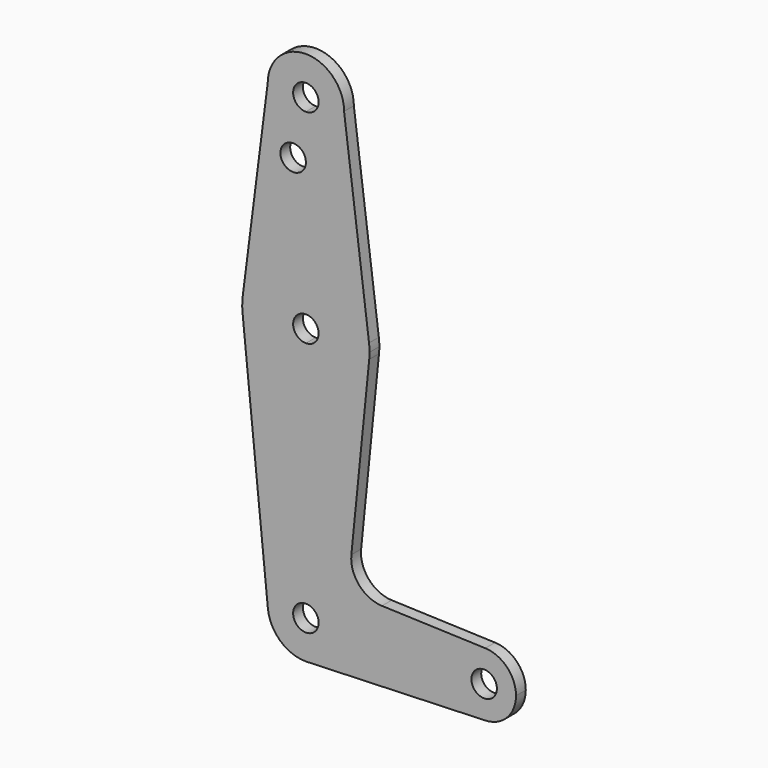
from build123d import *

# Parameters (mm, degrees)
F0_R     = 3.175
F1_DEPTH = 3.048


with BuildPart() as f1:
    # F0 (on Front) → F1 (new body)
    with BuildSketch(Plane.XZ):
        with BuildLine():
            ThreePointArc((3.175, 0), (-2.2450640303, -2.2450640303), (0, 3.175))
            Line((0, 3.175), (0, 9.525))
            ThreePointArc((0, 9.525), (-7.063929059, 6.3895642457), (-9.4772553384, -0.9525))
            ThreePointArc((-9.4772553384, -0.9525), (-6.3895642457, -7.063929059), (0, -9.525))
            Line((0, -9.525), (0.6773435479, -9.500885786))
            ThreePointArc((0.6773435479, -9.500885786), (6.9705567315, -6.4912990883), (9.525, 0))
            Line((9.525, 0), (3.175, 0))
        make_face()
        with BuildLine():
            ThreePointArc((-9.4772553384, -0.9525), (-7.063929059, 6.3895642457), (0, 9.525))
            Line((0, 9.525), (0, 47.625))
            ThreePointArc((0, 47.625), (-10.6492737428, 51.7267849017), (-15.7954255641, 61.9125))
            Line((-15.7954255641, 61.9125), (-9.4772553384, -0.9525))
        make_face()
        with BuildLine():
            Line((0, 47.625), (0, 9.525))
            ThreePointArc((0, 9.525), (6.7351920908, 6.7351920908), (9.525, 0))
            Line((9.525, 0), (36.5125, 0))
            ThreePointArc((36.5125, 0), (38.9380895153, 5.7116327839), (44.7324052746, 7.9324746146))
            Line((44.7324052746, 7.9324746146), (18.968327868, 8.8497055806))
            ThreePointArc((18.968327868, 8.8497055806), (13.2612039825, 11.5674628959), (11.3408358685, 17.5898921545))
            Line((11.3408358685, 17.5898921545), (15.7954255641, 61.9125))
            ThreePointArc((15.7954255641, 61.9125), (10.6492737428, 51.7267849017), (0, 47.625))
        make_face()
        with BuildLine():
            Line((36.5125, 0), (9.525, 0))
            ThreePointArc((9.525, 0), (6.9705567315, -6.4912990883), (0.6773435479, -9.500885786))
            Line((0.6773435479, -9.500885786), (44.7324052746, -7.9324746146))
            ThreePointArc((44.7324052746, -7.9324746146), (38.9380895153, -5.7116327839), (36.5125, 0))
        make_face()
        with BuildLine():
            ThreePointArc((-15.7954255641, 61.9125), (-10.6492737428, 51.7267849017), (0, 47.625))
            Line((0, 47.625), (0, 60.325))
            ThreePointArc((0, 60.325), (-3.175, 63.5), (0, 66.675))
            Line((0, 66.675), (0, 79.375))
            ThreePointArc((0, 79.375), (-10.4912828548, 75.4142187767), (-15.7474569047, 65.5082893304))
            ThreePointArc((-15.7474569047, 65.5082893304), (-15.8735876171, 63.7117573215), (-15.7954255641, 61.9125))
        make_face()
        with BuildLine():
            Line((0, 60.325), (0, 47.625))
            ThreePointArc((0, 47.625), (10.6492737428, 51.7267849017), (15.7954255641, 61.9125))
            ThreePointArc((15.7954255641, 61.9125), (15.8550939106, 62.7052534459), (15.875, 63.5))
            ThreePointArc((15.875, 63.5), (15.8430821396, 64.5061676396), (15.7474569047, 65.5082893304))
            ThreePointArc((15.7474569047, 65.5082893304), (10.4912828548, 75.4142187767), (0, 79.375))
            Line((0, 79.375), (0, 66.675))
            ThreePointArc((0, 66.675), (2.2450640303, 65.7450640303), (3.175, 63.5))
            ThreePointArc((3.175, 63.5), (2.2450640303, 61.2549359697), (0, 60.325))
        make_face()
        with BuildLine():
            ThreePointArc((44.7324052746, 7.9324746146), (38.9380895153, 5.7116327839), (36.5125, 0))
            ThreePointArc((36.5125, 0), (38.9380895153, -5.7116327839), (44.7324052746, -7.9324746146))
            ThreePointArc((44.7324052746, -7.9324746146), (50.1616327839, -5.5119104847), (52.3875, 0))
            ThreePointArc((52.3875, 0), (50.1616327839, 5.5119104847), (44.7324052746, 7.9324746146))
        make_face()
        with BuildLine():
            ThreePointArc((47.625, 0), (44.45, -3.175), (41.275, 0))
            ThreePointArc((41.275, 0), (44.45, 3.175), (47.625, 0))
        make_face(mode=Mode.SUBTRACT)
        with BuildLine():
            ThreePointArc((0, -9.525), (0.3388863295, -9.5189695375), (0.6773435479, -9.500885786))
            Line((0.6773435479, -9.500885786), (0, -9.525))
        make_face()
        with BuildLine():
            Line((-9.525, 114.3), (-15.7474569047, 65.5082893304))
            ThreePointArc((-15.7474569047, 65.5082893304), (-10.4912828548, 75.4142187767), (0, 79.375))
            Line((0, 79.375), (0, 100.0252))
            Line((0, 100.0252), (0, 104.775))
            ThreePointArc((0, 104.775), (-6.7351920908, 107.5648079092), (-9.525, 114.3))
        make_face()
        with Locations((-3.175, 100.0252)):
            Circle(F0_R, mode=Mode.SUBTRACT)
        with BuildLine():
            Line((0, 100.0252), (0, 79.375))
            ThreePointArc((0, 79.375), (10.4912828548, 75.4142187767), (15.7474569047, 65.5082893304))
            Line((15.7474569047, 65.5082893304), (9.525, 114.3))
            ThreePointArc((9.525, 114.3), (6.7351920908, 107.5648079092), (0, 104.775))
            Line((0, 104.775), (0, 100.0252))
        make_face()
        with BuildLine():
            ThreePointArc((9.525, 114.3), (0, 123.825), (-9.525, 114.3))
            ThreePointArc((-9.525, 114.3), (-6.7351920908, 107.5648079092), (0, 104.775))
            ThreePointArc((0, 104.775), (6.7351920908, 107.5648079092), (9.525, 114.3))
        make_face()
        with BuildLine():
            ThreePointArc((3.175, 114.3), (2.2450640303, 112.0549359697), (0, 111.125))
            ThreePointArc((0, 111.125), (-2.2450640303, 116.5450640303), (3.175, 114.3))
        make_face(mode=Mode.SUBTRACT)
        with BuildLine():
            Line((0, 9.525), (0, 3.175))
            ThreePointArc((0, 3.175), (2.2450640303, 2.2450640303), (3.175, 0))
            Line((3.175, 0), (9.525, 0))
            ThreePointArc((9.525, 0), (6.7351920908, 6.7351920908), (0, 9.525))
        make_face()
    extrude(amount=F1_DEPTH)


solid = f1.part
